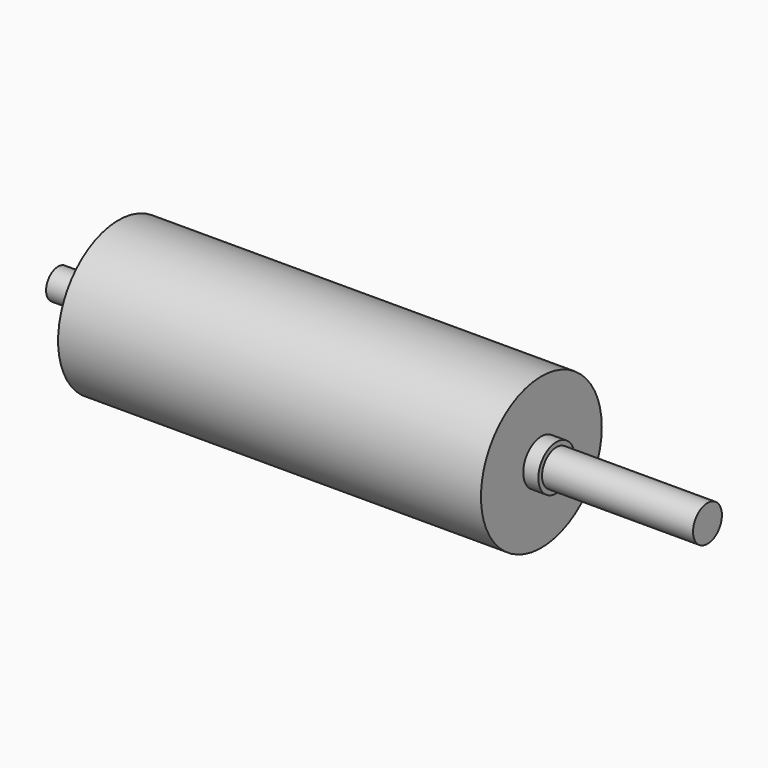
from build123d import *

# Parameters (mm, degrees)
F0_R      = 25
F1_DEPTH  = 70
F2_R      = 7.5
F3_DEPTH  = 5
F4_R      = 5.975
F5_DEPTH  = 50
F6_DEPTH  = 70
F7_R      = 7.5
F8_DEPTH  = 5
F9_R      = 4.975
F10_DEPTH = 15


with BuildPart() as f1:
    # F0 (on Right) → F1 (new body)
    with BuildSketch(Plane.YZ):
        Circle(F0_R)
    extrude(amount=F1_DEPTH)

    # F2 (on face) → F3 (join)
    with BuildSketch(Plane.YZ.offset(70)):
        Circle(F2_R)
    extrude(amount=F3_DEPTH)

    # F4 (on face) → F5 (join)
    with BuildSketch(Plane.YZ.offset(75)):
        Circle(F4_R)
    extrude(amount=F5_DEPTH)

    # F6 (add): a face of the model
    f6_faces = [f1.faces().sort_by_distance(p)[0] for p in [
        (0, 0, 0),
    ]]
    extrude(f6_faces, amount=F6_DEPTH)

    # F7 (on face) → F8 (join)
    with BuildSketch(Plane(origin=(-70, 0, 0), x_dir=(0, -1, 0), z_dir=(-1, 0, 0))):
        Circle(F7_R)
    extrude(amount=F8_DEPTH)

    # F9 (on face) → F10 (join)
    with BuildSketch(Plane(origin=(-75, 0, 0), x_dir=(0, -1, 0), z_dir=(-1, 0, 0))):
        Circle(F9_R)
    extrude(amount=F10_DEPTH)


solid = f1.part
